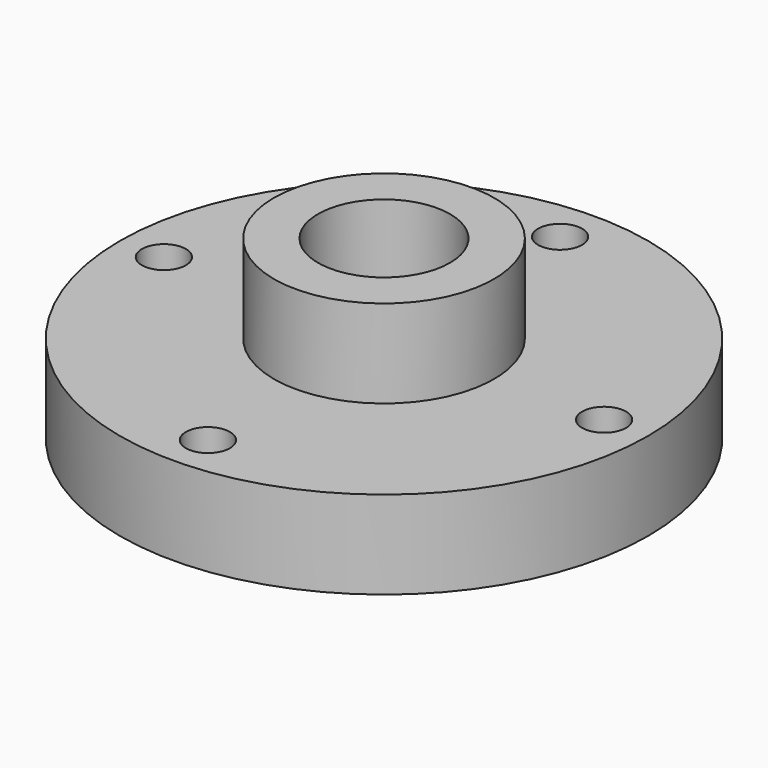
from build123d import *

# Parameters (mm, degrees)
F0_W     = 15.875
F0_H     = 12.7
F2_R     = 3.175
F3_DEPTH = 25.4
F4_R     = 9.525
F5_DEPTH = 50.5226


with BuildPart() as f1:
    # F0 (on Front) → F1 (revolve)
    with BuildSketch(Plane.XZ):
        Polygon((-38.1, 0), (0, 0), (0, 12.7), (-15.875, 12.7), (-38.1, 12.7), align=None)
        with Locations((-7.9375, 19.05)):
            Rectangle(F0_W, F0_H)
    revolve(axis=Axis((0, 0, 18.219382), (0, 0, 1)))

    # F2 (on face) → F3 (cut)
    with BuildSketch(Plane.XY.offset(12.7)):
        with Locations((0, 31.75)):
            Circle(F2_R)
        with Locations((-31.75, 0)):
            Circle(F2_R)
        with Locations((0, -31.75)):
            Circle(F2_R)
        with Locations((31.75, 0)):
            Circle(F2_R)
    extrude(amount=-F3_DEPTH, mode=Mode.SUBTRACT)

    # F4 (on face) → F5 (cut)
    with BuildSketch(Plane.XY.offset(25.4)):
        Circle(F4_R)
    extrude(amount=-F5_DEPTH, mode=Mode.SUBTRACT)


solid = f1.part
